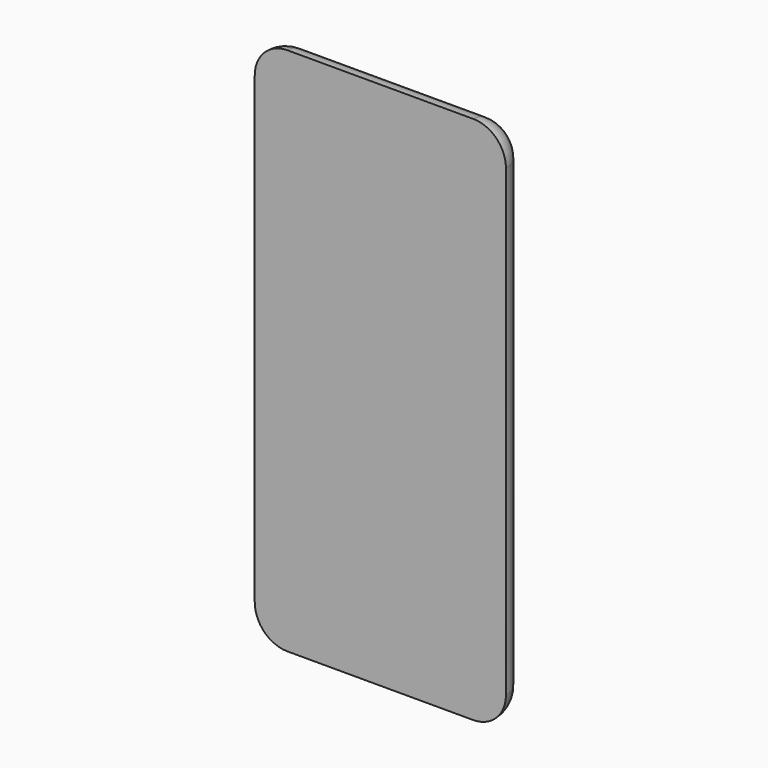
from build123d import *

# Parameters (mm, degrees)
F1_DEPTH = 6.1
F2_R     = 6.096
F3_R     = 4.18
F4_DEPTH = 0.6


with BuildPart() as f1:
    # F0 (on Front) → F1 (new body)
    with BuildSketch(Plane.XZ):
        with BuildLine():
            Line((8.623609, 65.353912), (-34.706391, 65.353912))
            ThreePointArc((-34.706391, 65.353912), (-40.094544, 63.122066), (-42.326391, 57.733912))
            Line((-42.326391, 57.733912), (-42.326391, -50.426088))
            ThreePointArc((-42.326391, -50.426088), (-40.094544, -55.814242), (-34.706391, -58.046088))
            Line((-34.706391, -58.046088), (8.623609, -58.046088))
            ThreePointArc((8.623609, -58.046088), (14.011763, -55.814242), (16.243609, -50.426088))
            Line((16.243609, -50.426088), (16.243609, 57.733912))
            ThreePointArc((16.243609, 57.733912), (14.011763, 63.122066), (8.623609, 65.353912))
        make_face()
    extrude(amount=F1_DEPTH)

    # F2
    f2_edges = [f1.edges().sort_by_distance(p)[0] for p in [
        (16.243609, 0, 3.653912),
        (14.011763, 0, 63.122066),
        (-13.041391, 0, 65.353912),
        (-40.094544, 0, 63.122066),
        (-42.326391, 0, 3.653912),
        (-40.094544, 0, -55.814242),
        (-13.041391, 0, -58.046088),
        (14.011763, 0, -55.814242),
    ]]
    fillet(f2_edges, radius=F2_R)

    # F3 (on face) → F4 (join)
    with BuildSketch(Plane(origin=(0, 0, 0), x_dir=(-1, 0, 0), z_dir=(0, 1, 0))):
        with Locations((-4.633609, 53.753912)):
            Circle(F3_R)
    extrude(amount=F4_DEPTH)


solid = f1.part
